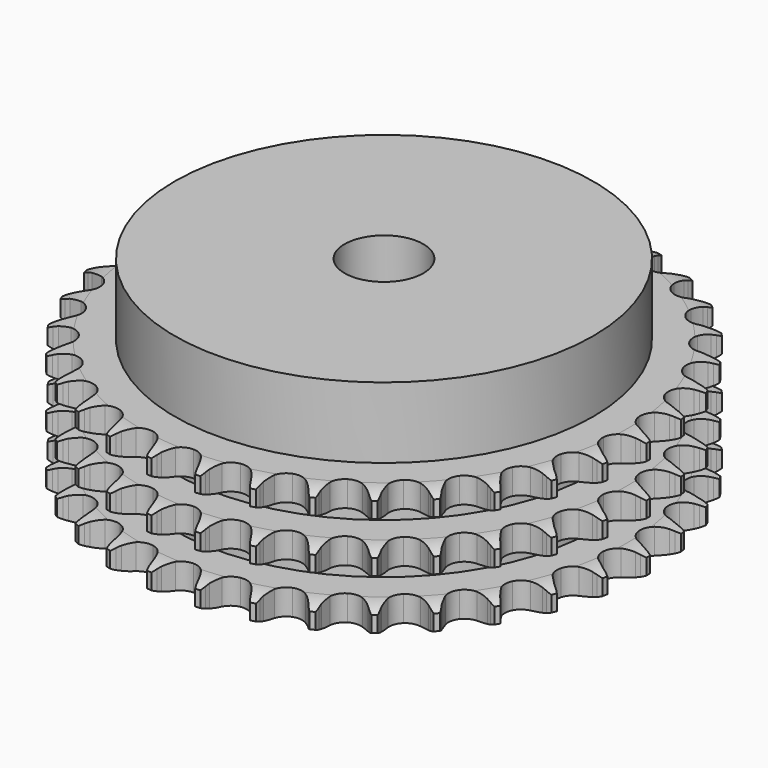
from build123d import *

# Parameters (mm, degrees)
PAD_DEPTH         = 25.6
SKETCH001_R       = 42.5
PAD001_DEPTH      = 40
SKETCH002_R       = 8
POCKET_DEPTH      = 0.001
POCKET_DEPTH_BACK = 40.001


with BuildPart() as part:
    # Sprocket → Pad (new body)
    with BuildSketch(Plane.XY):
        with BuildLine():
            ThreePointArc((-5.026037, 54.239578), (-4.44889, 53.462377), (-4.027454, 52.590867))
            Line((-4.027454, 52.590867), (-3.717669, 51.758402))
            ThreePointArc((-3.717669, 51.758402), (-3.226366, 50.680337), (-2.586733, 49.683105))
            ThreePointArc((-2.586733, 49.683105), (-1.446692, 48.728988), (0, 48.386769))
            ThreePointArc((0, 48.386769), (1.446692, 48.728988), (2.586733, 49.683105))
            ThreePointArc((2.586733, 49.683105), (3.226366, 50.680337), (3.717669, 51.758402))
            Line((3.717669, 51.758402), (4.027454, 52.590867))
            ThreePointArc((4.027454, 52.590867), (4.44889, 53.462377), (5.026037, 54.239578))
            ThreePointArc((5.026037, 54.239578), (5.450547, 53.36956), (5.704667, 52.43545))
            Line((5.704667, 52.43545), (5.856213, 51.560237))
            ThreePointArc((5.856213, 51.560237), (6.141056, 50.410251), (6.586558, 49.312466))
            ThreePointArc((6.586558, 49.312466), (7.531869, 48.165113), (8.891045, 47.562892))
            ThreePointArc((8.891045, 47.562892), (10.375987, 47.633455), (11.671935, 48.361844))
            Line((11.671935, 48.361844), (13.16495, 50.193997))
            ThreePointArc((13.16495, 50.193997), (13.383506, 50.580798), (13.622426, 50.955365))
            ThreePointArc((13.622426, 50.955365), (14.196826, 51.734597), (14.906956, 52.392514))
            ThreePointArc((14.906956, 52.392514), (15.164372, 51.459307), (15.242523, 50.494407))
            Line((15.242523, 50.494407), (15.230669, 49.606249))
            ThreePointArc((15.230669, 49.606249), (15.299353, 48.423504), (15.535551, 47.262551))
            ThreePointArc((15.535551, 47.262551), (16.25394, 45.961033), (17.479317, 45.119318))
            ThreePointArc((17.479317, 45.119318), (18.951941, 44.915822), (20.359664, 45.39368))
            Line((20.359664, 45.39368), (22.163914, 46.920296))
            ThreePointArc((22.163914, 46.920296), (22.449824, 47.260351), (22.753502, 47.584639))
            ThreePointArc((22.753502, 47.584639), (23.461305, 48.245058), (24.280236, 48.761286))
            ThreePointArc((24.280236, 48.761286), (24.361792, 47.796668), (24.261313, 46.833838))
            Line((24.261313, 46.833838), (24.086462, 45.962981))
            ThreePointArc((24.086462, 45.962981), (23.936648, 44.787754), (23.9555, 43.603166))
            ThreePointArc((23.9555, 43.603166), (24.422504, 42.191805), (25.472351, 41.13926))
            ThreePointArc((25.472351, 41.13926), (26.882509, 40.668635), (28.354069, 40.879688))
            Line((28.354069, 40.879688), (30.408113, 42.04878))
            ThreePointArc((30.408113, 42.04878), (30.75164, 42.33051), (31.109734, 42.593475))
            ThreePointArc((31.109734, 42.593475), (31.926838, 43.112591), (32.826681, 43.469551))
            ThreePointArc((32.826681, 43.469551), (32.729601, 42.506372), (32.453913, 41.578398))
            Line((32.453913, 41.578398), (32.12202, 40.754498))
            ThreePointArc((32.12202, 40.754498), (31.758809, 39.626809), (31.559673, 38.458928))
            ThreePointArc((31.559673, 38.458928), (31.759388, 36.985786), (32.597955, 35.758254))
            ThreePointArc((32.597955, 35.758254), (33.897625, 35.036526), (35.38291, 34.973587))
            Line((35.38291, 34.973587), (37.6168, 35.745343))
            ThreePointArc((37.6168, 35.745343), (38.006246, 35.959153), (38.406562, 36.151841))
            ThreePointArc((38.406562, 36.151841), (39.30514, 36.511976), (40.255254, 36.697513))
            ThreePointArc((40.255254, 36.697513), (39.982843, 35.768571), (39.541334, 34.907056))
            Line((39.541334, 34.907056), (39.0637, 34.158169))
            ThreePointArc((39.0637, 34.158169), (38.499462, 33.116422), (38.089119, 32.005017))
            ThreePointArc((38.089119, 32.005017), (38.014745, 30.520261), (38.613475, 29.159543))
            ThreePointArc((38.613475, 29.159543), (39.758398, 28.21129), (41.206828, 27.876503))
            Line((41.206828, 27.876503), (43.544492, 28.224642))
            ThreePointArc((43.544492, 28.224642), (43.966594, 28.363251), (44.395501, 28.4791))
            ThreePointArc((44.395501, 28.4791), (45.344954, 28.667989), (46.312982, 28.675784))
            ThreePointArc((46.312982, 28.675784), (45.874517, 27.812715), (45.282223, 27.046996))
            Line((45.282223, 27.046996), (44.675114, 26.398625))
            ThreePointArc((44.675114, 26.398625), (43.929062, 25.478294), (43.321486, 24.461213))
            ThreePointArc((43.321486, 24.461213), (42.975555, 23.015404), (43.314059, 21.567839))
            ThreePointArc((43.314059, 21.567839), (44.265247, 20.425353), (45.627497, 19.830117))
            Line((45.627497, 19.830117), (47.989329, 19.742784))
            ThreePointArc((47.989329, 19.742784), (48.429713, 19.801472), (48.872604, 19.836537))
            ThreePointArc((48.872604, 19.836537), (49.840599, 19.847749), (50.793577, 19.677536))
            ThreePointArc((50.793577, 19.677536), (50.203989, 18.909731), (49.481079, 18.265883))
            Line((49.481079, 18.265883), (48.76517, 17.740108))
            ThreePointArc((48.76517, 17.740108), (47.86271, 16.972534), (47.078591, 16.084413))
            ThreePointArc((47.078591, 16.084413), (46.472884, 14.726786), (46.539635, 13.241668))
            ThreePointArc((46.539635, 13.241668), (47.264696, 11.943855), (48.494377, 11.108441))
            Line((48.494377, 11.108441), (50.799947, 10.58861))
            ThreePointArc((50.799947, 10.58861), (51.243616, 10.565378), (51.68541, 10.518465))
            ThreePointArc((51.68541, 10.518465), (52.638982, 10.351617), (53.544457, 10.009194))
            ThreePointArc((53.544457, 10.009194), (52.823825, 9.362798), (51.994917, 8.862747))
            Line((51.994917, 8.862747), (51.194586, 8.477473))
            ThreePointArc((51.194586, 8.477473), (50.166452, 7.888794), (49.232492, 7.159877))
            ThreePointArc((49.232492, 7.159877), (48.387634, 5.936664), (48.180359, 4.464568))
            ThreePointArc((48.180359, 4.464568), (48.654602, 3.055623), (49.709839, 2.008481))
            Line((49.709839, 2.008481), (51.880633, 1.073853))
            ThreePointArc((51.880633, 1.073853), (52.312479, 0.969493), (52.73813, 0.842199))
            ThreePointArc((52.73813, 0.842199), (53.644808, 0.502974), (54.471946, 0))
            ThreePointArc((54.471946, 0), (53.644808, -0.502974), (52.73813, -0.842199))
            Line((52.73813, -0.842199), (51.880633, -1.073853))
            ThreePointArc((51.880633, -1.073853), (50.761835, -1.463589), (49.709839, -2.008481))
            ThreePointArc((49.709839, -2.008481), (48.654602, -3.055623), (48.180359, -4.464568))
            ThreePointArc((48.180359, -4.464568), (48.387634, -5.936664), (49.232492, -7.159877))
            Line((49.232492, -7.159877), (51.194586, -8.477473))
            ThreePointArc((51.194586, -8.477473), (51.599904, -8.659408), (51.994917, -8.862747))
            ThreePointArc((51.994917, -8.862747), (52.823825, -9.362798), (53.544457, -10.009194))
            ThreePointArc((53.544457, -10.009194), (52.638982, -10.351617), (51.68541, -10.518465))
            Line((51.68541, -10.518465), (50.799947, -10.58861))
            ThreePointArc((50.799947, -10.58861), (49.628584, -10.766131), (48.494377, -11.108441))
            ThreePointArc((48.494377, -11.108441), (47.264696, -11.943855), (46.539635, -13.241668))
            ThreePointArc((46.539635, -13.241668), (46.472884, -14.726786), (47.078591, -16.084413))
            Line((47.078591, -16.084413), (48.76517, -17.740108))
            ThreePointArc((48.76517, -17.740108), (49.130155, -17.993422), (49.481079, -18.265883))
            ThreePointArc((49.481079, -18.265883), (50.203989, -18.909731), (50.793577, -19.677536))
            ThreePointArc((50.793577, -19.677536), (49.840599, -19.847749), (48.872604, -19.836537))
            Line((48.872604, -19.836537), (47.989329, -19.742784))
            ThreePointArc((47.989329, -19.742784), (46.805292, -19.702046), (45.627497, -19.830117))
            ThreePointArc((45.627497, -19.830117), (44.265247, -20.425353), (43.314059, -21.567839))
            ThreePointArc((43.314059, -21.567839), (42.975555, -23.015404), (43.321486, -24.461213))
            Line((43.321486, -24.461213), (44.675114, -26.398625))
            ThreePointArc((44.675114, -26.398625), (44.987338, -26.714692), (45.282223, -27.046996))
            ThreePointArc((45.282223, -27.046996), (45.874517, -27.812715), (46.312982, -28.675784))
            ThreePointArc((46.312982, -28.675784), (45.344954, -28.667989), (44.395501, -28.4791))
            Line((44.395501, -28.4791), (43.544492, -28.224642))
            ThreePointArc((43.544492, -28.224642), (42.388102, -27.967031), (41.206828, -27.876503))
            ThreePointArc((41.206828, -27.876503), (39.758398, -28.21129), (38.613475, -29.159543))
            ThreePointArc((38.613475, -29.159543), (38.014745, -30.520261), (38.089119, -32.005017))
            Line((38.089119, -32.005017), (39.0637, -34.158169))
            ThreePointArc((39.0637, -34.158169), (39.312532, -34.526226), (39.541334, -34.907056))
            ThreePointArc((39.541334, -34.907056), (39.982843, -35.768571), (40.255254, -36.697513))
            ThreePointArc((40.255254, -36.697513), (39.30514, -36.511976), (38.406562, -36.151841))
            Line((38.406562, -36.151841), (37.6168, -35.745343))
            ThreePointArc((37.6168, -35.745343), (36.527435, -35.279632), (35.38291, -34.973587))
            ThreePointArc((35.38291, -34.973587), (33.897625, -35.036526), (32.597955, -35.758254))
            ThreePointArc((32.597955, -35.758254), (31.759388, -36.985786), (31.559673, -38.458928))
            Line((31.559673, -38.458928), (32.12202, -40.754498))
            ThreePointArc((32.12202, -40.754498), (32.298984, -41.16201), (32.453913, -41.578398))
            ThreePointArc((32.453913, -41.578398), (32.729601, -42.506372), (32.826681, -43.469551))
            ThreePointArc((32.826681, -43.469551), (31.926838, -43.112591), (31.109734, -42.593475))
            Line((31.109734, -42.593475), (30.408113, -42.04878))
            ThreePointArc((30.408113, -42.04878), (29.422871, -41.390828), (28.354069, -40.879688))
            ThreePointArc((28.354069, -40.879688), (26.882509, -40.668635), (25.472351, -41.13926))
            ThreePointArc((25.472351, -41.13926), (24.422504, -42.191805), (23.9555, -43.603166))
            Line((23.9555, -43.603166), (24.086462, -45.962981))
            ThreePointArc((24.086462, -45.962981), (24.185533, -46.396071), (24.261313, -46.833838))
            ThreePointArc((24.261313, -46.833838), (24.361792, -47.796668), (24.280236, -48.761286))
            ThreePointArc((24.280236, -48.761286), (23.461305, -48.245058), (22.753502, -47.584639))
            Line((22.753502, -47.584639), (22.163914, -46.920296))
            ThreePointArc((22.163914, -46.920296), (21.316346, -46.092509), (20.359664, -45.39368))
            ThreePointArc((20.359664, -45.39368), (18.951941, -44.915822), (17.479317, -45.119318))
            ThreePointArc((17.479317, -45.119318), (16.25394, -45.961033), (15.535551, -47.262551))
            Line((15.535551, -47.262551), (15.230669, -49.606249))
            ThreePointArc((15.230669, -49.606249), (15.248472, -50.05017), (15.242523, -50.494407))
            ThreePointArc((15.242523, -50.494407), (15.164372, -51.459307), (14.906956, -52.392514))
            ThreePointArc((14.906956, -52.392514), (14.196826, -51.734597), (13.622426, -50.955365))
            Line((13.622426, -50.955365), (13.16495, -50.193997))
            ThreePointArc((13.16495, -50.193997), (12.483918, -49.224564), (11.671935, -48.361844))
            ThreePointArc((11.671935, -48.361844), (10.375987, -47.633455), (8.891045, -47.562892))
            ThreePointArc((8.891045, -47.562892), (7.531869, -48.165113), (6.586558, -49.312466))
            Line((6.586558, -49.312466), (5.856213, -51.560237))
            ThreePointArc((5.856213, -51.560237), (5.792144, -51.99987), (5.704667, -52.43545))
            ThreePointArc((5.704667, -52.43545), (5.450547, -53.36956), (5.026037, -54.239578))
            ThreePointArc((5.026037, -54.239578), (4.44889, -53.462377), (4.027454, -52.590867))
            Line((4.027454, -52.590867), (3.717669, -51.758402))
            ThreePointArc((3.717669, -51.758402), (3.226366, -50.680337), (2.586733, -49.683105))
            ThreePointArc((2.586733, -49.683105), (1.446692, -48.728988), (0, -48.386769))
            ThreePointArc((0, -48.386769), (-1.446692, -48.728988), (-2.586733, -49.683105))
            Line((-2.586733, -49.683105), (-3.717669, -51.758402))
            ThreePointArc((-3.717669, -51.758402), (-3.86143, -52.178777), (-4.027454, -52.590867))
            ThreePointArc((-4.027454, -52.590867), (-4.44889, -53.462377), (-5.026037, -54.239578))
            ThreePointArc((-5.026037, -54.239578), (-5.450547, -53.36956), (-5.704667, -52.43545))
            Line((-5.704667, -52.43545), (-5.856213, -51.560237))
            ThreePointArc((-5.856213, -51.560237), (-6.141056, -50.410251), (-6.586558, -49.312466))
            ThreePointArc((-6.586558, -49.312466), (-7.531869, -48.165113), (-8.891045, -47.562892))
            ThreePointArc((-8.891045, -47.562892), (-10.375987, -47.633455), (-11.671935, -48.361844))
            Line((-11.671935, -48.361844), (-13.16495, -50.193997))
            ThreePointArc((-13.16495, -50.193997), (-13.383506, -50.580798), (-13.622426, -50.955365))
            ThreePointArc((-13.622426, -50.955365), (-14.196826, -51.734597), (-14.906956, -52.392514))
            ThreePointArc((-14.906956, -52.392514), (-15.164372, -51.459307), (-15.242523, -50.494407))
            Line((-15.242523, -50.494407), (-15.230669, -49.606249))
            ThreePointArc((-15.230669, -49.606249), (-15.299353, -48.423504), (-15.535551, -47.262551))
            ThreePointArc((-15.535551, -47.262551), (-16.25394, -45.961033), (-17.479317, -45.119318))
            ThreePointArc((-17.479317, -45.119318), (-18.951941, -44.915822), (-20.359664, -45.39368))
            Line((-20.359664, -45.39368), (-22.163914, -46.920296))
            ThreePointArc((-22.163914, -46.920296), (-22.449824, -47.260351), (-22.753502, -47.584639))
            ThreePointArc((-22.753502, -47.584639), (-23.461305, -48.245058), (-24.280236, -48.761286))
            ThreePointArc((-24.280236, -48.761286), (-24.361792, -47.796668), (-24.261313, -46.833838))
            Line((-24.261313, -46.833838), (-24.086462, -45.962981))
            ThreePointArc((-24.086462, -45.962981), (-23.936648, -44.787754), (-23.9555, -43.603166))
            ThreePointArc((-23.9555, -43.603166), (-24.422504, -42.191805), (-25.472351, -41.13926))
            ThreePointArc((-25.472351, -41.13926), (-26.882509, -40.668635), (-28.354069, -40.879688))
            Line((-28.354069, -40.879688), (-30.408113, -42.04878))
            ThreePointArc((-30.408113, -42.04878), (-30.75164, -42.33051), (-31.109734, -42.593475))
            ThreePointArc((-31.109734, -42.593475), (-31.926838, -43.112591), (-32.826681, -43.469551))
            ThreePointArc((-32.826681, -43.469551), (-32.729601, -42.506372), (-32.453913, -41.578398))
            Line((-32.453913, -41.578398), (-32.12202, -40.754498))
            ThreePointArc((-32.12202, -40.754498), (-31.758809, -39.626809), (-31.559673, -38.458928))
            ThreePointArc((-31.559673, -38.458928), (-31.759388, -36.985786), (-32.597955, -35.758254))
            ThreePointArc((-32.597955, -35.758254), (-33.897625, -35.036526), (-35.38291, -34.973587))
            Line((-35.38291, -34.973587), (-37.6168, -35.745343))
            ThreePointArc((-37.6168, -35.745343), (-38.006246, -35.959153), (-38.406562, -36.151841))
            ThreePointArc((-38.406562, -36.151841), (-39.30514, -36.511976), (-40.255254, -36.697513))
            ThreePointArc((-40.255254, -36.697513), (-39.982843, -35.768571), (-39.541334, -34.907056))
            Line((-39.541334, -34.907056), (-39.0637, -34.158169))
            ThreePointArc((-39.0637, -34.158169), (-38.499462, -33.116422), (-38.089119, -32.005017))
            ThreePointArc((-38.089119, -32.005017), (-38.014745, -30.520261), (-38.613475, -29.159543))
            ThreePointArc((-38.613475, -29.159543), (-39.758398, -28.21129), (-41.206828, -27.876503))
            Line((-41.206828, -27.876503), (-43.544492, -28.224642))
            ThreePointArc((-43.544492, -28.224642), (-43.966594, -28.363251), (-44.395501, -28.4791))
            ThreePointArc((-44.395501, -28.4791), (-45.344954, -28.667989), (-46.312982, -28.675784))
            ThreePointArc((-46.312982, -28.675784), (-45.874517, -27.812715), (-45.282223, -27.046996))
            Line((-45.282223, -27.046996), (-44.675114, -26.398625))
            ThreePointArc((-44.675114, -26.398625), (-43.929062, -25.478294), (-43.321486, -24.461213))
            ThreePointArc((-43.321486, -24.461213), (-42.975555, -23.015404), (-43.314059, -21.567839))
            ThreePointArc((-43.314059, -21.567839), (-44.265247, -20.425353), (-45.627497, -19.830117))
            Line((-45.627497, -19.830117), (-47.989329, -19.742784))
            ThreePointArc((-47.989329, -19.742784), (-48.429713, -19.801472), (-48.872604, -19.836537))
            ThreePointArc((-48.872604, -19.836537), (-49.840599, -19.847749), (-50.793577, -19.677536))
            ThreePointArc((-50.793577, -19.677536), (-50.203989, -18.909731), (-49.481079, -18.265883))
            Line((-49.481079, -18.265883), (-48.76517, -17.740108))
            ThreePointArc((-48.76517, -17.740108), (-47.86271, -16.972534), (-47.078591, -16.084413))
            ThreePointArc((-47.078591, -16.084413), (-46.472884, -14.726786), (-46.539635, -13.241668))
            ThreePointArc((-46.539635, -13.241668), (-47.264696, -11.943855), (-48.494377, -11.108441))
            Line((-48.494377, -11.108441), (-50.799947, -10.58861))
            ThreePointArc((-50.799947, -10.58861), (-51.243616, -10.565378), (-51.68541, -10.518465))
            ThreePointArc((-51.68541, -10.518465), (-52.638982, -10.351617), (-53.544457, -10.009194))
            ThreePointArc((-53.544457, -10.009194), (-52.823825, -9.362798), (-51.994917, -8.862747))
            Line((-51.994917, -8.862747), (-51.194586, -8.477473))
            ThreePointArc((-51.194586, -8.477473), (-50.166452, -7.888794), (-49.232492, -7.159877))
            ThreePointArc((-49.232492, -7.159877), (-48.387634, -5.936664), (-48.180359, -4.464568))
            ThreePointArc((-48.180359, -4.464568), (-48.654602, -3.055623), (-49.709839, -2.008481))
            Line((-49.709839, -2.008481), (-51.880633, -1.073853))
            ThreePointArc((-51.880633, -1.073853), (-52.312479, -0.969493), (-52.73813, -0.842199))
            ThreePointArc((-52.73813, -0.842199), (-53.644808, -0.502974), (-54.471946, 0))
            ThreePointArc((-54.471946, 0), (-53.644808, 0.502974), (-52.73813, 0.842199))
            Line((-52.73813, 0.842199), (-51.880633, 1.073853))
            ThreePointArc((-51.880633, 1.073853), (-50.761835, 1.463589), (-49.709839, 2.008481))
            ThreePointArc((-49.709839, 2.008481), (-48.654602, 3.055623), (-48.180359, 4.464568))
            ThreePointArc((-48.180359, 4.464568), (-48.387634, 5.936664), (-49.232492, 7.159877))
            Line((-49.232492, 7.159877), (-51.194586, 8.477473))
            ThreePointArc((-51.194586, 8.477473), (-51.599904, 8.659408), (-51.994917, 8.862747))
            ThreePointArc((-51.994917, 8.862747), (-52.823825, 9.362798), (-53.544457, 10.009194))
            ThreePointArc((-53.544457, 10.009194), (-52.638982, 10.351617), (-51.68541, 10.518465))
            Line((-51.68541, 10.518465), (-50.799947, 10.58861))
            ThreePointArc((-50.799947, 10.58861), (-49.628584, 10.766131), (-48.494377, 11.108441))
            ThreePointArc((-48.494377, 11.108441), (-47.264696, 11.943855), (-46.539635, 13.241668))
            ThreePointArc((-46.539635, 13.241668), (-46.472884, 14.726786), (-47.078591, 16.084413))
            Line((-47.078591, 16.084413), (-48.76517, 17.740108))
            ThreePointArc((-48.76517, 17.740108), (-49.130155, 17.993422), (-49.481079, 18.265883))
            ThreePointArc((-49.481079, 18.265883), (-50.203989, 18.909731), (-50.793577, 19.677536))
            ThreePointArc((-50.793577, 19.677536), (-49.840599, 19.847749), (-48.872604, 19.836537))
            Line((-48.872604, 19.836537), (-47.989329, 19.742784))
            ThreePointArc((-47.989329, 19.742784), (-46.805292, 19.702046), (-45.627497, 19.830117))
            ThreePointArc((-45.627497, 19.830117), (-44.265247, 20.425353), (-43.314059, 21.567839))
            ThreePointArc((-43.314059, 21.567839), (-42.975555, 23.015404), (-43.321486, 24.461213))
            Line((-43.321486, 24.461213), (-44.675114, 26.398625))
            ThreePointArc((-44.675114, 26.398625), (-44.987338, 26.714692), (-45.282223, 27.046996))
            ThreePointArc((-45.282223, 27.046996), (-45.874517, 27.812715), (-46.312982, 28.675784))
            ThreePointArc((-46.312982, 28.675784), (-45.344954, 28.667989), (-44.395501, 28.4791))
            Line((-44.395501, 28.4791), (-43.544492, 28.224642))
            ThreePointArc((-43.544492, 28.224642), (-42.388102, 27.967031), (-41.206828, 27.876503))
            ThreePointArc((-41.206828, 27.876503), (-39.758398, 28.21129), (-38.613475, 29.159543))
            ThreePointArc((-38.613475, 29.159543), (-38.014745, 30.520261), (-38.089119, 32.005017))
            Line((-38.089119, 32.005017), (-39.0637, 34.158169))
            ThreePointArc((-39.0637, 34.158169), (-39.312532, 34.526226), (-39.541334, 34.907056))
            ThreePointArc((-39.541334, 34.907056), (-39.982843, 35.768571), (-40.255254, 36.697513))
            ThreePointArc((-40.255254, 36.697513), (-39.30514, 36.511976), (-38.406562, 36.151841))
            Line((-38.406562, 36.151841), (-37.6168, 35.745343))
            ThreePointArc((-37.6168, 35.745343), (-36.527435, 35.279632), (-35.38291, 34.973587))
            ThreePointArc((-35.38291, 34.973587), (-33.897625, 35.036526), (-32.597955, 35.758254))
            ThreePointArc((-32.597955, 35.758254), (-31.759388, 36.985786), (-31.559673, 38.458928))
            Line((-31.559673, 38.458928), (-32.12202, 40.754498))
            ThreePointArc((-32.12202, 40.754498), (-32.298984, 41.16201), (-32.453913, 41.578398))
            ThreePointArc((-32.453913, 41.578398), (-32.729601, 42.506372), (-32.826681, 43.469551))
            ThreePointArc((-32.826681, 43.469551), (-31.926838, 43.112591), (-31.109734, 42.593475))
            Line((-31.109734, 42.593475), (-30.408113, 42.04878))
            ThreePointArc((-30.408113, 42.04878), (-29.422871, 41.390828), (-28.354069, 40.879688))
            ThreePointArc((-28.354069, 40.879688), (-26.882509, 40.668635), (-25.472351, 41.13926))
            ThreePointArc((-25.472351, 41.13926), (-24.422504, 42.191805), (-23.9555, 43.603166))
            Line((-23.9555, 43.603166), (-24.086462, 45.962981))
            ThreePointArc((-24.086462, 45.962981), (-24.185533, 46.396071), (-24.261313, 46.833838))
            ThreePointArc((-24.261313, 46.833838), (-24.361792, 47.796668), (-24.280236, 48.761286))
            ThreePointArc((-24.280236, 48.761286), (-23.461305, 48.245058), (-22.753502, 47.584639))
            Line((-22.753502, 47.584639), (-22.163914, 46.920296))
            ThreePointArc((-22.163914, 46.920296), (-21.316346, 46.092509), (-20.359664, 45.39368))
            ThreePointArc((-20.359664, 45.39368), (-18.951941, 44.915822), (-17.479317, 45.119318))
            ThreePointArc((-17.479317, 45.119318), (-16.25394, 45.961033), (-15.535551, 47.262551))
            Line((-15.535551, 47.262551), (-15.230669, 49.606249))
            ThreePointArc((-15.230669, 49.606249), (-15.248472, 50.05017), (-15.242523, 50.494407))
            ThreePointArc((-15.242523, 50.494407), (-15.164372, 51.459307), (-14.906956, 52.392514))
            ThreePointArc((-14.906956, 52.392514), (-14.196826, 51.734597), (-13.622426, 50.955365))
            Line((-13.622426, 50.955365), (-13.16495, 50.193997))
            ThreePointArc((-13.16495, 50.193997), (-12.483918, 49.224564), (-11.671935, 48.361844))
            ThreePointArc((-11.671935, 48.361844), (-10.375987, 47.633455), (-8.891045, 47.562892))
            ThreePointArc((-8.891045, 47.562892), (-7.531869, 48.165113), (-6.586558, 49.312466))
            Line((-6.586558, 49.312466), (-5.856213, 51.560237))
            ThreePointArc((-5.856213, 51.560237), (-5.792144, 51.99987), (-5.704667, 52.43545))
            ThreePointArc((-5.704667, 52.43545), (-5.450547, 53.36956), (-5.026037, 54.239578))
        make_face()
    extrude(amount=PAD_DEPTH)

    # Sketch → Groove (revolve, cut)
    with BuildSketch(Plane.XZ):
        with BuildLine():
            ThreePointArc((49.291101, 0), (51.527169, 0.253206), (53.65, 1))
            Line((53.65, 1), (53.65, 4.2))
            ThreePointArc((53.65, 4.2), (51.527169, 4.946794), (49.291101, 5.2))
            Line((42.5, 5.2), (49.291101, 5.2))
            Line((42.5, 5.2), (42.5, 10.2))
            Line((42.5, 10.2), (49.291101, 10.2))
            ThreePointArc((49.291101, 10.2), (51.527169, 10.453206), (53.65, 11.2))
            Line((53.65, 14.4), (53.65, 11.2))
            ThreePointArc((53.65, 14.4), (51.527169, 15.146794), (49.291101, 15.4))
            Line((42.5, 15.4), (49.291101, 15.4))
            Line((42.5, 20.4), (42.5, 15.4))
            Line((49.291101, 20.4), (42.5, 20.4))
            ThreePointArc((49.291101, 20.4), (51.527169, 20.653206), (53.65, 21.4))
            Line((53.65, 21.4), (53.65, 24.6))
            ThreePointArc((53.65, 24.6), (51.527169, 25.346794), (49.291101, 25.6))
            Line((49.291101, 25.6), (63.65, 25.6))
            Line((63.65, 25.6), (63.65, 0))
            Line((49.291101, 0), (63.65, 0))
        make_face()
    revolve(axis=Axis((0, 0, 0), (0, 0, 1)), mode=Mode.SUBTRACT)

    # Sketch001 → Pad001 (join)
    with BuildSketch(Plane.XY):
        Circle(SKETCH001_R)
    extrude(amount=PAD001_DEPTH)

    # Sketch002 → Pocket (cut, two sides)
    with BuildSketch(Plane.XY) as pocket_sk:
        Circle(SKETCH002_R)
    extrude(amount=-POCKET_DEPTH, mode=Mode.SUBTRACT)
    extrude(pocket_sk.sketch, amount=POCKET_DEPTH_BACK, mode=Mode.SUBTRACT)


solid = part.part
